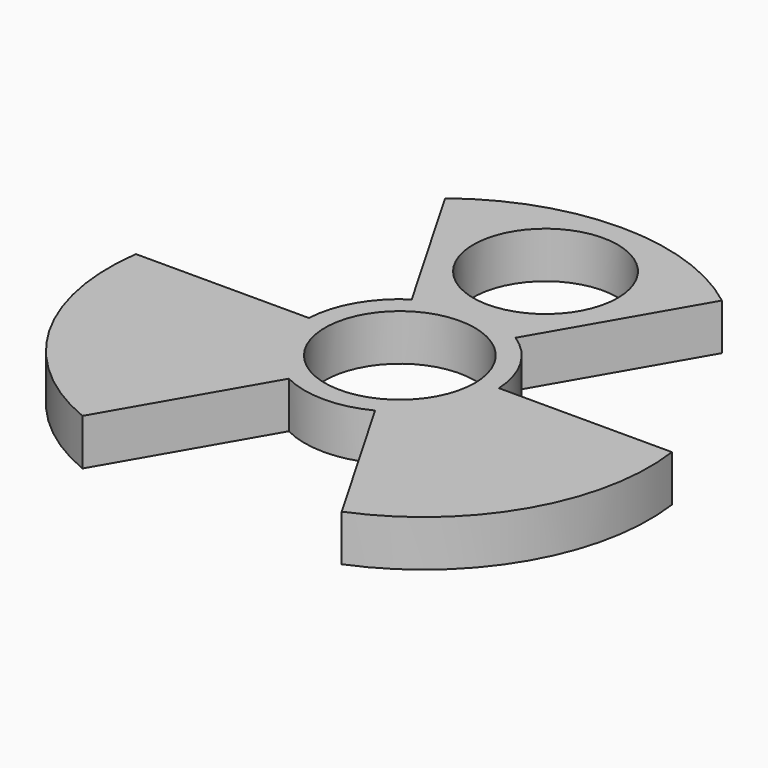
from build123d import *

# Parameters (mm, degrees)
F0_R     = 10.9982
F0_R_2   = 10.6
F1_DEPTH = 6.8


with BuildPart() as f1:
    # F0 (on Top) → F1 (new body)
    with BuildSketch(Plane.XY):
        with BuildLine():
            ThreePointArc((6.330137, -12.453524), (11.907832, -7.305097), (13.97, 0))
            ThreePointArc((13.97, 0), (13.965033, 0.372484), (13.950137, 0.744703))
            ThreePointArc((13.950137, 0.744703), (12.098375, 6.985), (7.62, 11.708821))
            ThreePointArc((7.62, 11.708821), (0, 13.97), (-7.62, 11.708821))
            ThreePointArc((-7.62, 11.708821), (-12.098375, 6.985), (-13.950137, 0.744703))
            ThreePointArc((-13.950137, 0.744703), (-12.098375, -6.985), (-6.330137, -12.453524))
            ThreePointArc((-6.330137, -12.453524), (0, -13.97), (6.330137, -12.453524))
        make_face()
        Circle(F0_R, mode=Mode.SUBTRACT)
        with BuildLine():
            ThreePointArc((13.950137, 0.744703), (13.965033, 0.372484), (13.97, 0))
            ThreePointArc((13.97, 0), (11.907832, -7.305097), (6.330137, -12.453524))
            Line((6.330137, -12.453524), (19.030137, -34.45057))
            ThreePointArc((19.030137, -34.45057), (35.214419, -20.331054), (39.350137, 0.744703))
            Line((39.350137, 0.744703), (13.950137, 0.744703))
        make_face()
        with BuildLine():
            ThreePointArc((-7.62, 11.708821), (0, 13.97), (7.62, 11.708821))
            Line((7.62, 11.708821), (20.32, 33.705867))
            ThreePointArc((20.32, 33.705867), (0, 40.662108), (-20.32, 33.705867))
            Line((-20.32, 33.705867), (-7.62, 11.708821))
        make_face()
        with Locations((0, 26.729)):
            Circle(F0_R_2, mode=Mode.SUBTRACT)
        with BuildLine():
            Line((-19.030137, -34.45057), (-6.330137, -12.453524))
            ThreePointArc((-6.330137, -12.453524), (-12.098375, -6.985), (-13.950137, 0.744703))
            Line((-13.950137, 0.744703), (-39.350137, 0.744703))
            ThreePointArc((-39.350137, 0.744703), (-35.214419, -20.331054), (-19.030137, -34.45057))
        make_face()
    extrude(amount=F1_DEPTH)


solid = f1.part
